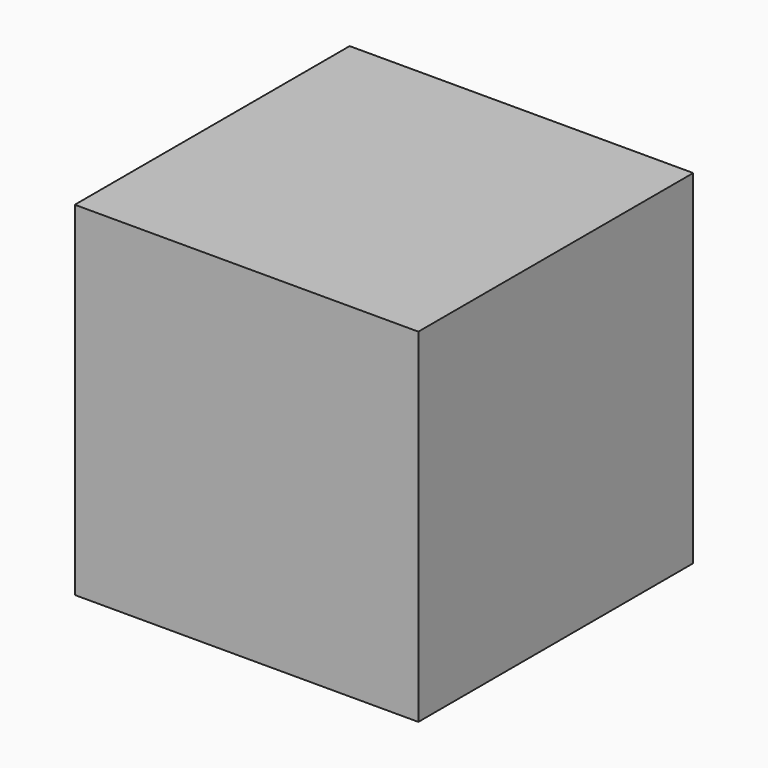
from build123d import *

# Parameters (mm, degrees)
F0_W     = 10
F0_H     = 10
F1_DEPTH = 10
F2_T     = -1


with BuildPart() as f1:
    # F0 (on Top) → F1 (new body)
    with BuildSketch(Plane.XY):
        with Locations((5, 5)):
            Rectangle(F0_W, F0_H)
    extrude(amount=-F1_DEPTH)

    # F2
    f2_openings = [f1.faces().sort_by_distance(p)[0] for p in [
        (5, 10, -5),
    ]]
    offset(amount=F2_T, openings=f2_openings)


solid = f1.part
